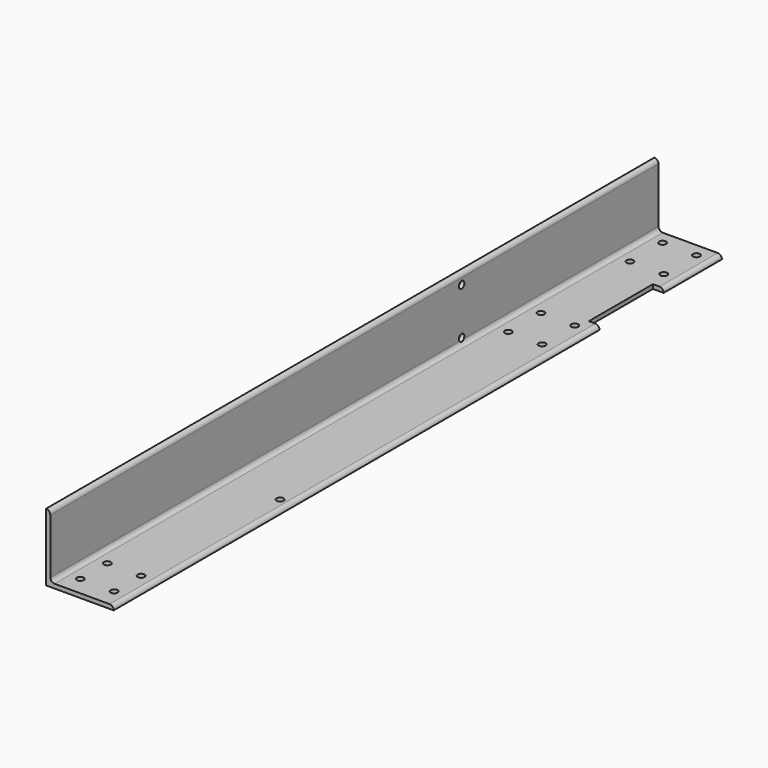
from build123d import *

# Parameters (mm, degrees)
F1_DEPTH = 571.5
F2_R     = 2.6162
F2_W     = 13.84812
F2_H     = 60.235433
F3_DEPTH = 3.176
F4_R     = 2.6162
F5_DEPTH = 50.801


with BuildPart() as f1:
    # F0 (on Front) → F1 (new body)
    with BuildSketch(Plane.XZ):
        with BuildLine():
            Line((-50.8, 0), (0, 0))
            ThreePointArc((0, 0), (-0.929936, 2.245064), (-3.175, 3.175))
            Line((-3.175, 3.175), (-44.45, 3.175))
            ThreePointArc((-44.45, 3.175), (-46.695064, 4.104936), (-47.625, 6.35))
            Line((-47.625, 6.35), (-47.625, 47.625))
            ThreePointArc((-47.625, 47.625), (-48.554936, 49.870064), (-50.8, 50.8))
            Line((-50.8, 50.8), (-50.8, 0))
        make_face()
    extrude(amount=F1_DEPTH)

    # F2 (on face) → F3 (cut, through all)
    with BuildSketch(Plane.XY.offset(3.175)):
        with Locations((-36.5125, -557.2125)):
            Circle(F2_R)
        with Locations((-36.5125, -40.7416)):
            Circle(F2_R)
        with Locations((-36.5125, -10.0584)):
            Circle(F2_R)
        with Locations((-36.5125, -124.4092)):
            Circle(F2_R)
        with Locations((-36.5125, -155.0924)):
            Circle(F2_R)
        with Locations((-11.1125, -40.7416)):
            Circle(F2_R)
        with Locations((-11.1125, -10.0584)):
            Circle(F2_R)
        with Locations((-11.1125, -155.0924)):
            Circle(F2_R)
        with Locations((-11.1125, -124.4092)):
            Circle(F2_R)
        with Locations((-36.5125, -531.8125)):
            Circle(F2_R)
        with Locations((-11.1125, -531.8125)):
            Circle(F2_R)
        with Locations((-11.1125, -557.2125)):
            Circle(F2_R)
        with Locations((-1.164439, -84.816474)):
            Rectangle(F2_W, F2_H)
        with Locations((-7.9375, -405.1808)):
            Circle(F2_R)
    extrude(amount=-F3_DEPTH, mode=Mode.SUBTRACT)

    # F4 (on face) → F5 (cut, through all)
    with BuildSketch(Plane(origin=(-50.8, 0, 0), x_dir=(0, -1, 0), z_dir=(-1, 0, 0))):
        with Locations((185.0898, 7.9375)):
            Circle(F4_R)
        with Locations((185.0898, 42.8625)):
            Circle(F4_R)
    extrude(amount=-F5_DEPTH, mode=Mode.SUBTRACT)


solid = f1.part
